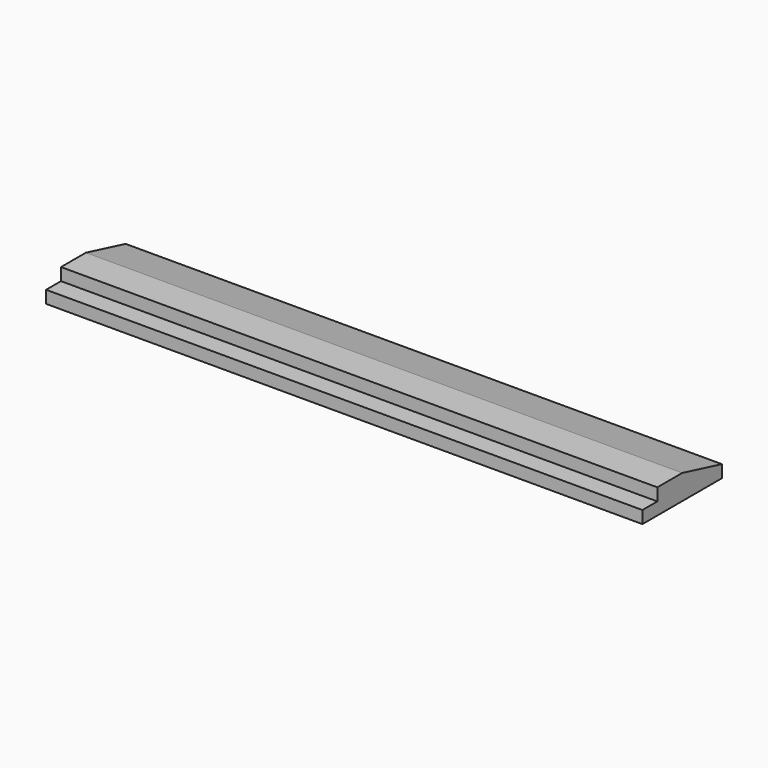
from build123d import *

# Parameters (mm, degrees)
F0_W      = 609.6
F0_H      = 82.55
F1_DEPTH  = 12.7
F0_H_2    = 19.05
F1_FACE_W = 609.6
F1_FACE_H = 82.55
F2_DEPTH  = 12.7
F3_SIZE2  = 50.8
F3_SIZE   = 12.7


with BuildPart() as f1:
    # F0 (on Top) → F1 (new body)
    with BuildSketch(Plane.XY):
        with Locations((-3.8962736726, 51.1384306475)):
            Rectangle(F0_W, F0_H)
    extrude(amount=F1_DEPTH)

    # F0 (on Top) + F1_face (on face) → F2 (join)
    with BuildSketch(Plane.XY):
        with Locations((-3.8962736726, 51.1384306475)):
            Rectangle(F0_W, F0_H)
        with Locations((-3.8962736726, 0.3384306475)):
            Rectangle(F0_W, F0_H_2)
    with BuildSketch(Plane(origin=(-3.8962736726, 51.1384306475, 12.7), x_dir=(1, 0, 0), z_dir=(0, 0, 1))):
        Rectangle(F1_FACE_W, F1_FACE_H)
    extrude(amount=F2_DEPTH)

    # F3
    f3_edges = [f1.edges().sort_by_distance(p)[0] for p in [
        (-3.896274, 92.413431, 25.4),
    ]]
    f3_side = f1.faces().sort_by_distance((-3.896274, 92.413431, 12.7))[0]
    chamfer(f3_edges, length=F3_SIZE, length2=F3_SIZE2, reference=f3_side)


solid = f1.part
